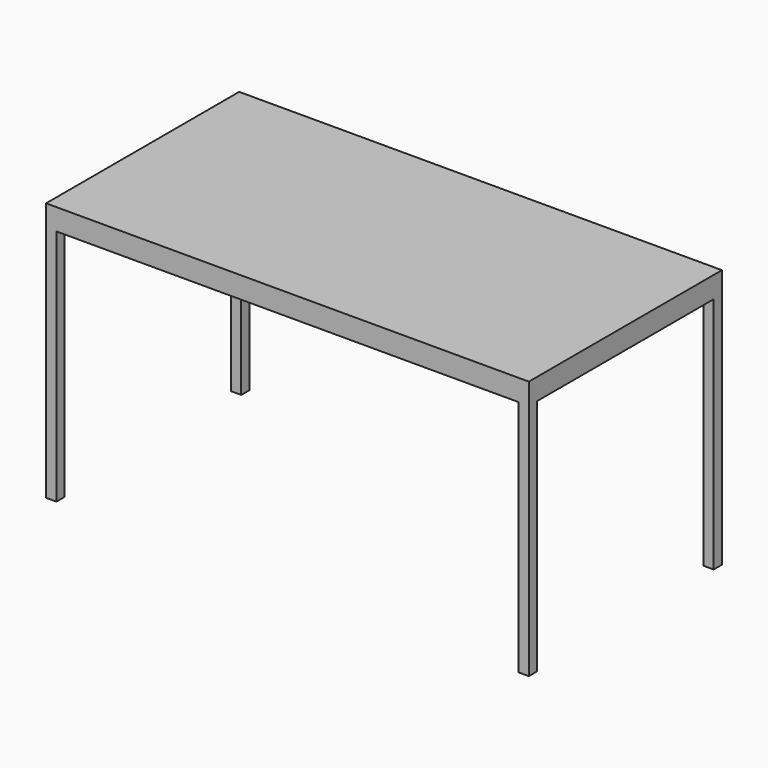
from build123d import *

# Parameters (mm, degrees)
F0_W     = 1400
F0_H     = 700
F1_DEPTH = 25
F2_W     = 1400
F2_H     = 700
F2_W_2   = 1340
F2_H_2   = 640
F3_DEPTH = 37
F4_W     = 30
F4_H     = 30
F5_DEPTH = 690


with BuildPart() as f1:
    # F0 (on Top) → F1 (new body)
    with BuildSketch(Plane.XY):
        with Locations((700, -350)):
            Rectangle(F0_W, F0_H)
    extrude(amount=-F1_DEPTH)

    # F2 (on face) → F3 (join)
    with BuildSketch(Plane(origin=(0, 0, -25), x_dir=(1, 0, 0), z_dir=(0, 0, -1))):
        with Locations((700, 350)):
            Rectangle(F2_W, F2_H)
        with Locations((700, 350)):
            Rectangle(F2_W_2, F2_H_2, mode=Mode.SUBTRACT)
    extrude(amount=F3_DEPTH)

    # F4 (on face) → F5 (join)
    with BuildSketch(Plane(origin=(0, 0, -62), x_dir=(1, 0, 0), z_dir=(0, 0, -1))):
        with Locations((15, 685)):
            Rectangle(F4_W, F4_H)
        with Locations((15, 15)):
            Rectangle(F4_W, F4_H)
        with Locations((1385, 685)):
            Rectangle(F4_W, F4_H)
        with Locations((1385, 15)):
            Rectangle(F4_W, F4_H)
    extrude(amount=F5_DEPTH)


solid = f1.part
